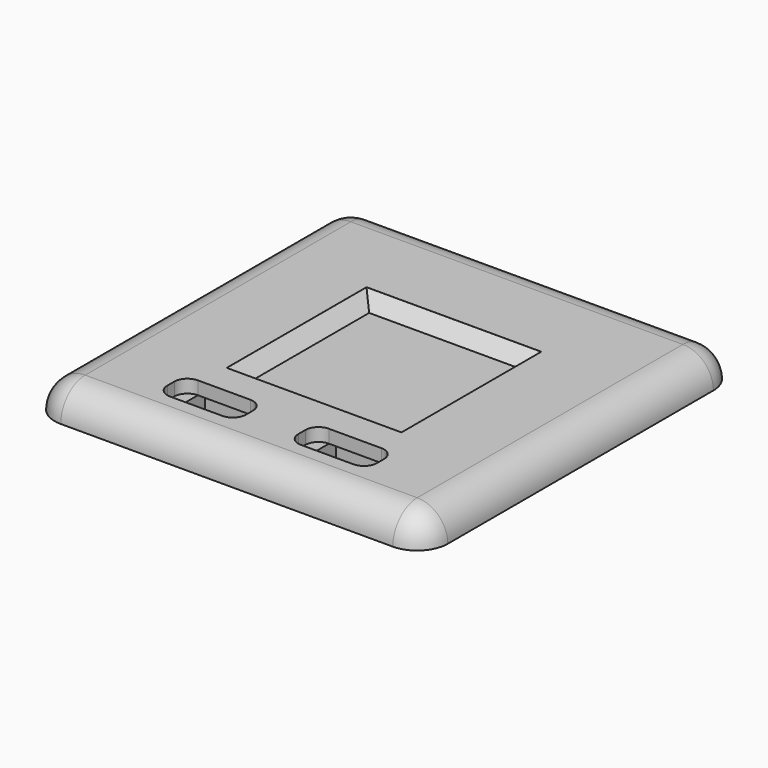
from build123d import *

# Parameters (mm, degrees)
BOX067_W          = 12
BOX067_H          = 12
BOX067_DEPTH      = 4
BOX069_W          = 18
BOX069_H          = 8
BOX069_DEPTH      = 3
FILLET031_R       = 3
BOX068_W          = 18
BOX068_H          = 8
BOX068_DEPTH      = 3
FILLET032_R       = 3
BOX066_W          = 12
BOX066_H          = 12
BOX066_DEPTH      = 4
CYLINDER053_R     = 1
CYLINDER053_DEPTH = 8
CYLINDER063_R     = 1
CYLINDER063_DEPTH = 8
CYLINDER060_R     = 1
CYLINDER060_DEPTH = 8
CYLINDER050_R     = 1
CYLINDER050_DEPTH = 8
BOX007_W          = 40
BOX007_H          = 40
BOX007_DEPTH      = 3
CHAMFER009_SIZE   = 2.99
BOX065_W          = 90
BOX065_H          = 90
BOX065_DEPTH      = 66
BOX063_W          = 82
BOX063_H          = 82
BOX063_DEPTH      = 75
FILLET030_R       = 6
BOX064_W          = 90
BOX064_H          = 90
BOX064_DEPTH      = 87
FILLET028_R       = 7


with BuildPart() as cube044:
    # Box067 → Box067 (new body)
    with BuildSketch(Plane(origin=(54, 8, 80), x_dir=(1, 0, 0), z_dir=(0, 0, 1))):
        with Locations((6, 6)):
            Rectangle(BOX067_W, BOX067_H)
    extrude(amount=BOX067_DEPTH)


with BuildPart() as fillet031:
    # Box069 → Box069 (new body)
    with BuildSketch(Plane(origin=(21, 10, 84), x_dir=(1, 0, 0), z_dir=(0, 0, 1))):
        with Locations((9, 4)):
            Rectangle(BOX069_W, BOX069_H)
    extrude(amount=BOX069_DEPTH)

    # Fillet031
    fillet031_edges = [fillet031.edges().sort_by_distance(p)[0] for p in [
        (21, 10, 85.5),
        (21, 18, 85.5),
        (39, 10, 85.5),
        (39, 18, 85.5),
    ]]
    fillet(fillet031_edges, radius=FILLET031_R)


with BuildPart() as fillet032:
    # Box068 → Box068 (new body)
    with BuildSketch(Plane(origin=(51, 10, 84), x_dir=(1, 0, 0), z_dir=(0, 0, 1))):
        with Locations((9, 4)):
            Rectangle(BOX068_W, BOX068_H)
    extrude(amount=BOX068_DEPTH)

    # Fillet032
    fillet032_edges = [fillet032.edges().sort_by_distance(p)[0] for p in [
        (51, 10, 85.5),
        (51, 18, 85.5),
        (69, 10, 85.5),
        (69, 18, 85.5),
    ]]
    fillet(fillet032_edges, radius=FILLET032_R)


with BuildPart() as fusion006:
    # Box066 → Box066 (new body)
    with BuildSketch(Plane(origin=(24, 8, 80), x_dir=(1, 0, 0), z_dir=(0, 0, 1))):
        with Locations((6, 6)):
            Rectangle(BOX066_W, BOX066_H)
    extrude(amount=BOX066_DEPTH)

    # Fusion006: union Cube044, Fillet031, Fillet032
    add(cube044.part)
    add(fillet031.part)
    add(fillet032.part)


with BuildPart() as cylinder058:
    # Cylinder053 → Cylinder053 (new body)
    with BuildSketch(Plane(origin=(9, 9, 78), x_dir=(1, 0, 0), z_dir=(0, 0, 1))):
        Circle(CYLINDER053_R)
    extrude(amount=CYLINDER053_DEPTH)


with BuildPart() as cylinder060:
    # Cylinder063 → Cylinder063 (new body)
    with BuildSketch(Plane(origin=(81, 81, 78), x_dir=(1, 0, 0), z_dir=(0, 0, 1))):
        Circle(CYLINDER063_R)
    extrude(amount=CYLINDER063_DEPTH)


with BuildPart() as cylinder064:
    # Cylinder060 → Cylinder060 (new body)
    with BuildSketch(Plane(origin=(81, 9, 78), x_dir=(1, 0, 0), z_dir=(0, 0, 1))):
        Circle(CYLINDER060_R)
    extrude(amount=CYLINDER060_DEPTH)


with BuildPart() as fusion005:
    # Cylinder050 → Cylinder050 (new body)
    with BuildSketch(Plane(origin=(9, 81, 78), x_dir=(1, 0, 0), z_dir=(0, 0, 1))):
        Circle(CYLINDER050_R)
    extrude(amount=CYLINDER050_DEPTH)

    # Fusion005: union Cylinder058, Cylinder060, Cylinder064
    add(cylinder058.part)
    add(cylinder060.part)
    add(cylinder064.part)


with BuildPart() as chamfer009:
    # Box007 → Box007 (new body)
    with BuildSketch(Plane(origin=(25, 25, 84), x_dir=(1, 0, 0), z_dir=(0, 0, 1))):
        with Locations((20, 20)):
            Rectangle(BOX007_W, BOX007_H)
    extrude(amount=BOX007_DEPTH)

    # Chamfer009
    chamfer009_edges = [chamfer009.edges().sort_by_distance(p)[0] for p in [
        (25, 45, 84),
        (65, 45, 84),
        (45, 25, 84),
        (45, 65, 84),
    ]]
    chamfer(chamfer009_edges, length=CHAMFER009_SIZE)


with BuildPart() as cube042:
    # Box065 → Box065 (new body)
    with BuildSketch(Plane.XY.offset(80)):
        with Locations((45, 45)):
            Rectangle(BOX065_W, BOX065_H)
    extrude(amount=BOX065_DEPTH)


with BuildPart() as fillet030:
    # Box063 → Box063 (new body)
    with BuildSketch(Plane.XY):
        with Locations((41, 41)):
            Rectangle(BOX063_W, BOX063_H)
    extrude(amount=BOX063_DEPTH)

    # Fillet030
    fillet030_edges = [fillet030.edges().sort_by_distance(p)[0] for p in [
        (0, 0, 37.5),
        (0, 41, 75),
        (0, 82, 37.5),
        (82, 0, 37.5),
        (82, 41, 75),
        (82, 82, 37.5),
        (41, 0, 75),
        (41, 82, 75),
    ]]
    fillet(fillet030_edges, radius=FILLET030_R)


with BuildPart() as fillet030_1:
    # Fillet030 placement: moved
    add(fillet030.part.moved(Location((4, 4, 4))))


with BuildPart() as top001:
    # Box064 → Box064 (new body)
    with BuildSketch(Plane.XY):
        with Locations((45, 45)):
            Rectangle(BOX064_W, BOX064_H)
    extrude(amount=BOX064_DEPTH)

    # Fillet028
    fillet028_edges = [top001.edges().sort_by_distance(p)[0] for p in [
        (0, 0, 43.5),
        (0, 45, 87),
        (0, 90, 43.5),
        (90, 0, 43.5),
        (90, 45, 87),
        (90, 90, 43.5),
        (45, 0, 87),
        (45, 90, 87),
    ]]
    fillet(fillet028_edges, radius=FILLET028_R)

    # Cut069: cut Fillet030
    add(fillet030_1.part, mode=Mode.SUBTRACT)

    # Common002: intersect Cube042
    add(cube042.part, mode=Mode.INTERSECT)

    # Cut070: cut Chamfer009
    add(chamfer009.part, mode=Mode.SUBTRACT)

    # Cut071: cut Fusion005
    add(fusion005.part, mode=Mode.SUBTRACT)

    # Cut072: cut Fusion006
    add(fusion006.part, mode=Mode.SUBTRACT)


with BuildPart() as top001_1:
    # Cut072 placement: moved
    add(top001.part.moved(Location((0, 0, 20))))


solid = top001_1.part
